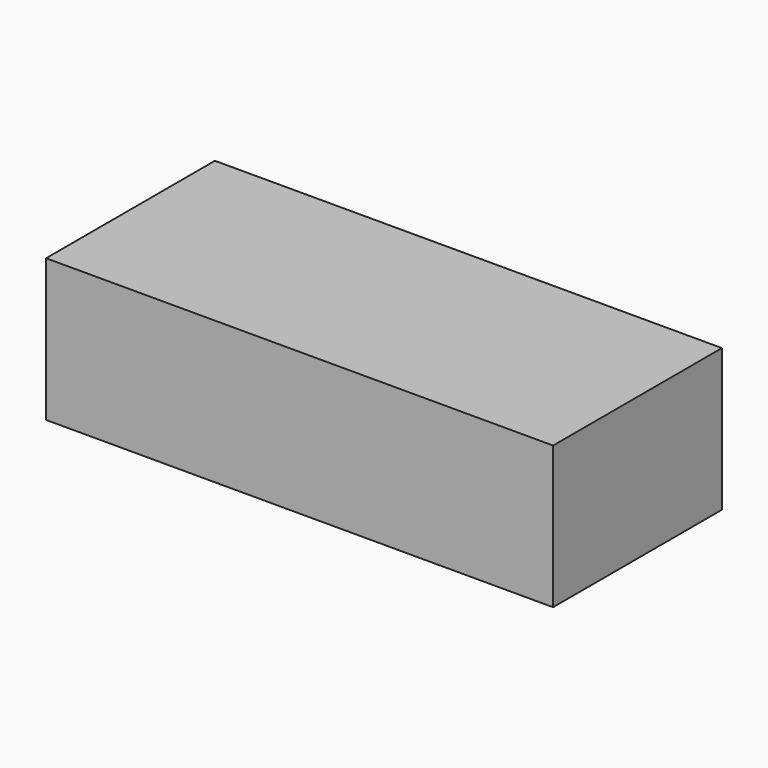
from build123d import *

# Parameters (mm, degrees)
BOX_W     = 103.124
BOX_H     = 42.926
BOX_DEPTH = 28.956


with BuildPart() as part:
    # Box → Box (new body)
    with BuildSketch(Plane.XY):
        with Locations((51.562, 21.463)):
            Rectangle(BOX_W, BOX_H)
    extrude(amount=BOX_DEPTH)


solid = part.part
